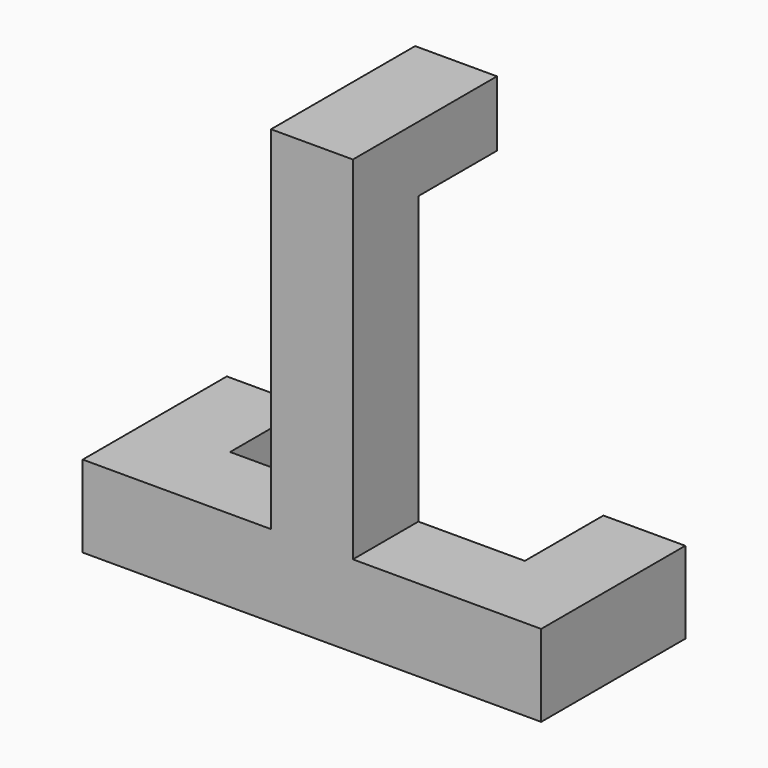
from build123d import *

# Parameters (mm, degrees)
F0_W     = 12.7
F0_H     = 12.7
F0_W_2   = 6.35
F0_H_2   = 17.78
F1_DEPTH = 12.7
F2_DEPTH = 15.24


with BuildPart() as f1:
    # F0 (on Front) → F1 (new body)
    with BuildSketch(Plane.XZ):
        with Locations((-20.219863, -11.348728)):
            Rectangle(F0_W, F0_H)
        with Locations((38.200137, -11.348728)):
            Rectangle(F0_W, F0_H)
        Polygon((2.640137, -4.998728), (-13.869863, -4.998728), (-13.869863, -17.698728), (31.850137, -17.698728), (31.850137, -4.998728), (15.340137, -4.998728), align=None)
        Polygon((8.990137, 21.671272), (2.640137, 21.671272), (2.640137, -4.998728), (15.340137, -4.998728), (15.340137, 21.671272), align=None)
        with Locations((12.165137, 30.561272)):
            Rectangle(F0_W_2, F0_H_2)
        with Locations((5.815137, 30.561272)):
            Rectangle(F0_W_2, F0_H_2)
        Polygon((2.640137, 49.611272), (2.640137, 39.451272), (8.990137, 39.451272), (15.340137, 39.451272), (15.340137, 49.611272), align=None)
    extrude(amount=F1_DEPTH)

    # F0 (on Front) → F2 (join)
    with BuildSketch(Plane.XZ):
        Polygon((2.640137, 49.611272), (2.640137, 39.451272), (8.990137, 39.451272), (15.340137, 39.451272), (15.340137, 49.611272), align=None)
        with Locations((-20.219863, -11.348728)):
            Rectangle(F0_W, F0_H)
        with Locations((38.200137, -11.348728)):
            Rectangle(F0_W, F0_H)
    extrude(amount=-F2_DEPTH)


solid = f1.part
